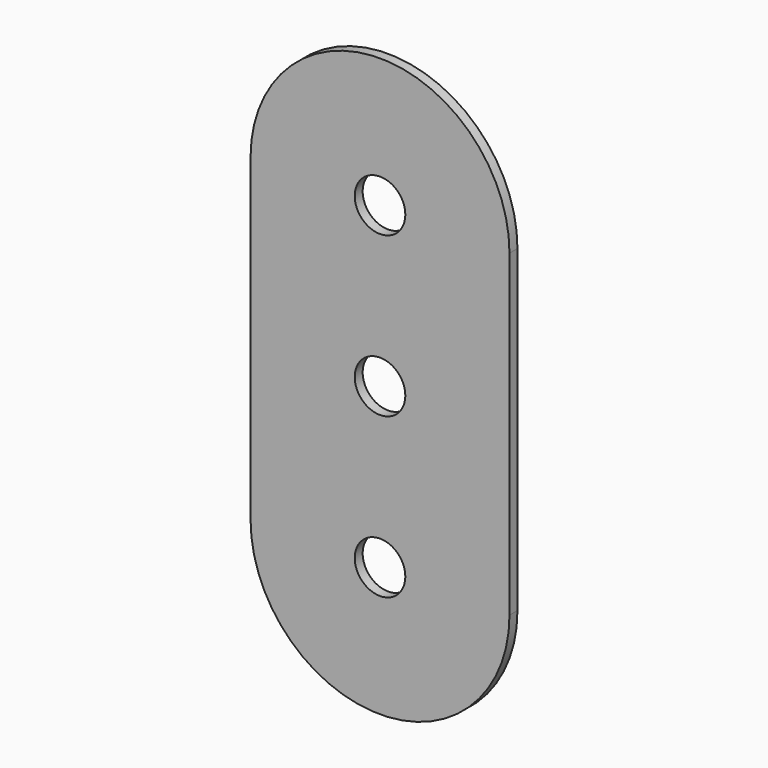
from build123d import *

# Parameters (mm, degrees)
F0_R     = 2.54
F1_DEPTH = 1


with BuildPart() as f1:
    # F0 (on Front) → F1 (new body)
    with BuildSketch(Plane.XZ):
        with BuildLine():
            ThreePointArc((11.155105, 31.938435), (-1.844895, 18.938435), (-14.844895, 31.938435))
            Line((-14.844895, 31.938435), (-14.844895, -0.061565))
            ThreePointArc((-14.844895, -0.061565), (-1.844895, 12.938435), (11.155105, -0.061565))
            Line((11.155105, -0.061565), (11.155105, 31.938435))
        make_face()
        with Locations((-1.844895, 15.938435)):
            Circle(F0_R, mode=Mode.SUBTRACT)
        with BuildLine():
            ThreePointArc((11.155105, 31.938435), (-1.844895, 44.938435), (-14.844895, 31.938435))
            ThreePointArc((-14.844895, 31.938435), (-1.844895, 18.938435), (11.155105, 31.938435))
        make_face()
        with Locations((-1.844895, 31.938435)):
            Circle(F0_R, mode=Mode.SUBTRACT)
        with BuildLine():
            ThreePointArc((11.155105, -0.061565), (-1.844895, 12.938435), (-14.844895, -0.061565))
            ThreePointArc((-14.844895, -0.061565), (-1.844895, -13.061565), (11.155105, -0.061565))
        make_face()
        with Locations((-1.844895, -0.061565)):
            Circle(F0_R, mode=Mode.SUBTRACT)
    extrude(amount=F1_DEPTH)


solid = f1.part
